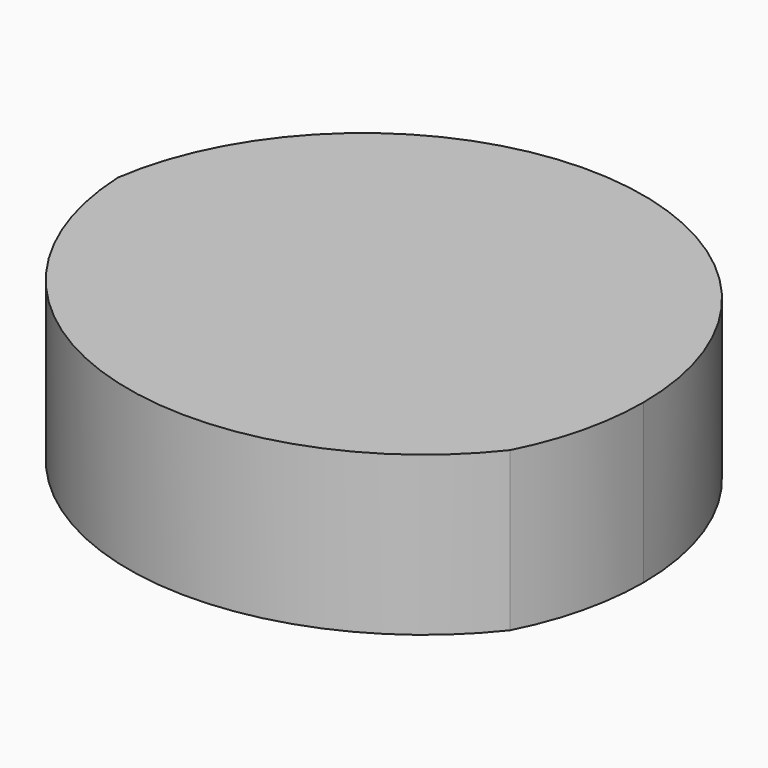
from build123d import *

# Parameters (mm, degrees)
F1_DEPTH = 76.2


with BuildPart() as f1:
    # F0 (on Top) → F1 (new body)
    with BuildSketch(Plane.XY):
        with BuildLine():
            ThreePointArc((192.8416903883, -68.8642859459), (67.8655093715, 65.5158162128), (-75.2127673542, -49.400085241))
            ThreePointArc((-75.2127673542, -49.400085241), (23.2843279614, -177.8075713143), (177.9998194338, -130.3388767488))
            ThreePointArc((177.9998194338, -130.3388767488), (189.078673531, -100.4847162395), (192.8416903883, -68.8642859459))
        make_face()
    extrude(amount=F1_DEPTH)


solid = f1.part
